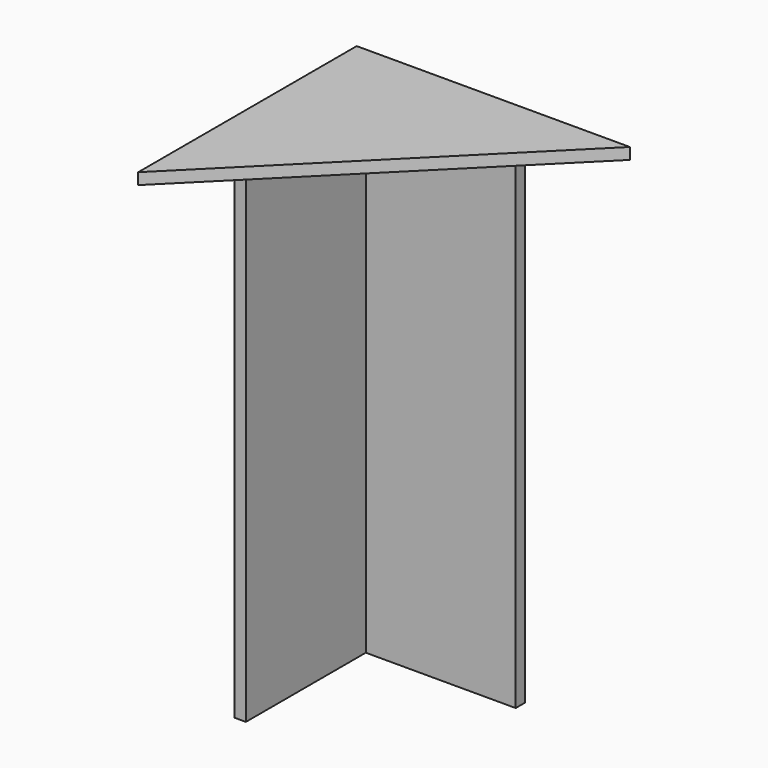
from build123d import *

# Parameters (mm, degrees)
F0_W     = 167.278976
F0_H     = 12.7
F1_DEPTH = 12.7
F2_DEPTH = 546.1
F3_DEPTH = 546.1


with BuildPart() as f1:
    # F0 (on Top) → F1 (new body)
    with BuildSketch(Plane.XY):
        Polygon((-152.4, -152.4), (152.4, 152.4), (-152.4, 152.4), align=None)
        Polygon((-114.3, -65.678976), (-114.3, 114.3), (-101.6, 114.3), (65.678976, 114.3), (65.678976, 101.6), (-101.6, 101.6), (-101.6, -65.678976), align=None, mode=Mode.SUBTRACT)
        Polygon((-101.6, 114.3), (-114.3, 114.3), (-114.3, -65.678976), (-101.6, -65.678976), (-101.6, 101.6), align=None)
        with Locations((-17.960512, 107.95)):
            Rectangle(F0_W, F0_H)
    extrude(amount=F1_DEPTH)


with BuildPart() as f2:
    # F0 (on Top) → F2 (new body)
    with BuildSketch(Plane.XY):
        Polygon((-101.6, 114.3), (-114.3, 114.3), (-114.3, -65.678976), (-101.6, -65.678976), (-101.6, 101.6), align=None)
    extrude(amount=-F2_DEPTH)


with BuildPart() as f3:
    # F0 (on Top) → F3 (new body, through all)
    with BuildSketch(Plane.XY):
        with Locations((-17.960512, 107.95)):
            Rectangle(F0_W, F0_H)
    extrude(amount=-F3_DEPTH)


solid = Compound([f1.part, f2.part, f3.part])
